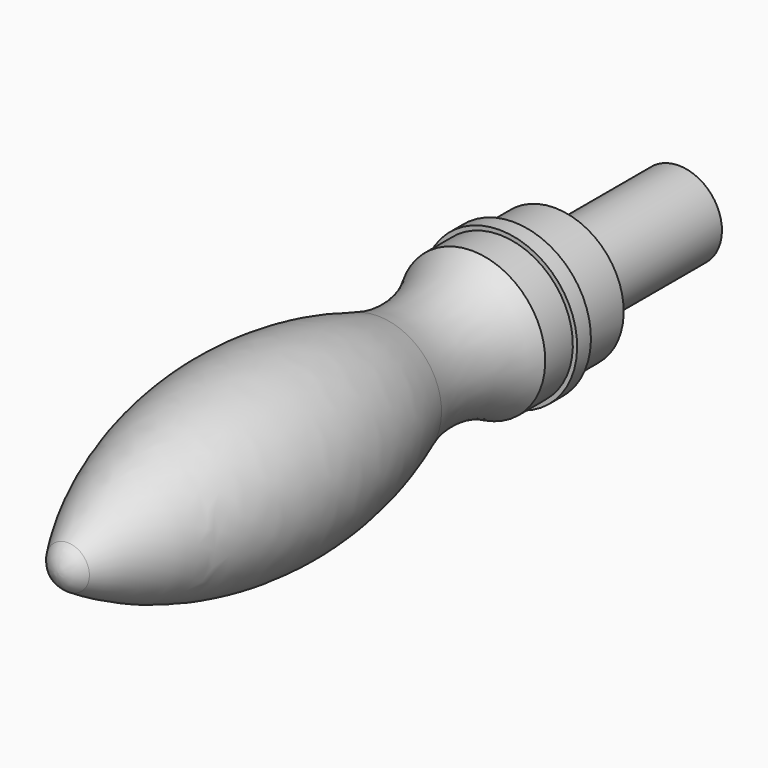
from build123d import *


with BuildPart() as f1:
    # F0 (on Right) → F1 (revolve)
    with BuildSketch(Plane.YZ):
        with BuildLine():
            Line((-90, 0), (0, 0))
            Line((0, 0), (0, 5))
            Line((0, 5), (-18, 5))
            Line((-18, 5), (-18, 8))
            Line((-18, 8), (-24, 8))
            Line((-24, 8), (-24, 9))
            Line((-24, 9), (-26, 9))
            Line((-26, 9), (-26, 8.5))
            Line((-26, 8.5), (-30, 8.5))
            ThreePointArc((-30, 8.5), (-36.704486, 6.408941), (-43.658574, 7.390427))
            ThreePointArc((-43.658574, 7.390427), (-66.731334, 10.330401), (-88.637769, 2.513506))
            ThreePointArc((-88.637769, 2.513506), (-89.637547, 1.429457), (-90, 0))
        make_face()
    revolve(axis=Axis((0, -46.076592, 0), (0, 1, 0)))


solid = f1.part
